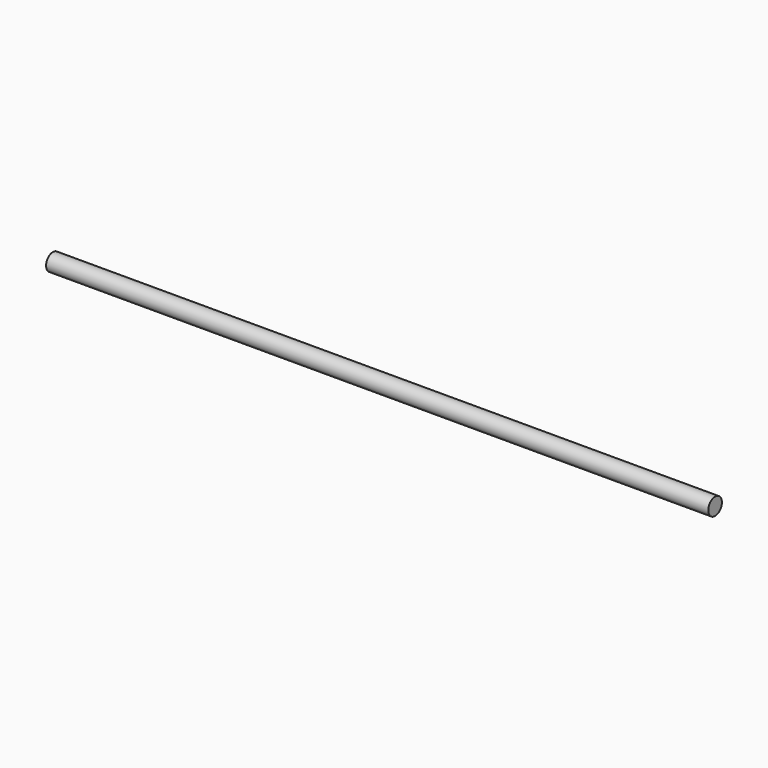
from build123d import *

# Parameters (mm, degrees)
SKETCH_R  = 4
PAD_DEPTH = 310


with BuildPart() as part:
    # Sketch → Pad (new body)
    with BuildSketch(Plane.YZ):
        Circle(SKETCH_R)
    extrude(amount=PAD_DEPTH)


solid = part.part
